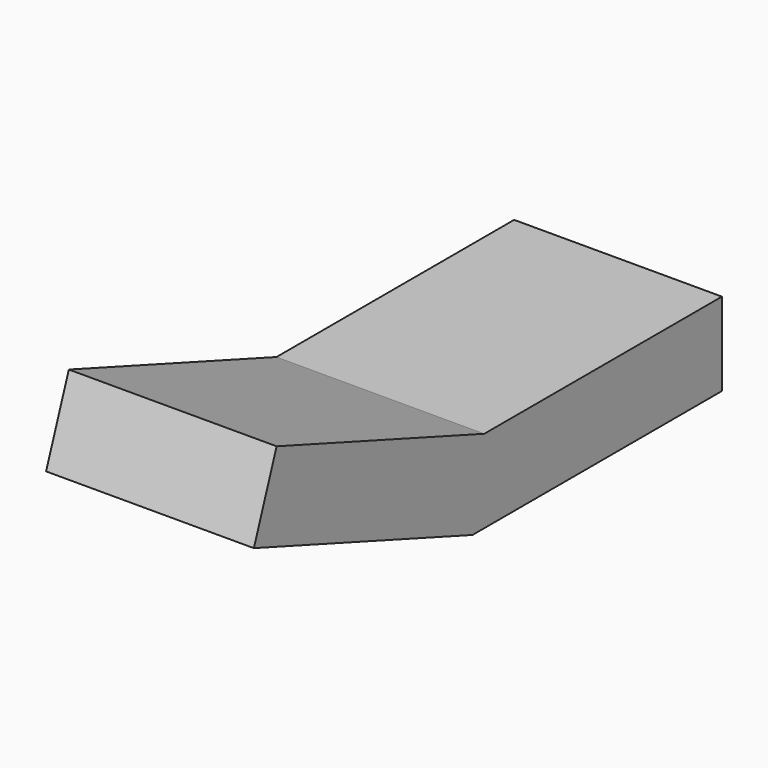
from build123d import *

# Parameters (mm, degrees)
BOX011_W                  = 0.5
BOX011_H                  = 0.75
BOX011_DEPTH              = 0.2
BOX012_W                  = 0.5
BOX012_H                  = 0.7
BOX012_DEPTH              = 0.2
BOX012_PLACEMENT_ANGLE    = 20
FUSION005_PLACEMENT_ANGLE = 180


with BuildPart() as cube011:
    # Box011 → Box011 (new body)
    with BuildSketch(Plane(origin=(0, -1.25, 0), x_dir=(1, 0, 0), z_dir=(0, 0, 1))):
        with Locations((0.25, 0.375)):
            Rectangle(BOX011_W, BOX011_H)
    extrude(amount=BOX011_DEPTH)


with BuildPart() as fusion005:
    # Box012 → Box012 (new body)
    with BuildSketch(Plane.XY):
        with Locations((0.25, 0.35)):
            Rectangle(BOX012_W, BOX012_H)
    extrude(amount=BOX012_DEPTH)


with BuildPart() as fusion005_1:
    # Box012 placement: moved
    add(fusion005.part.moved(Location((0, -0.5, 0))).rotate(Axis((0, -0.5, 0), (1, 0, 0)), BOX012_PLACEMENT_ANGLE))

    # Fusion005: union Cube011
    add(cube011.part)


with BuildPart() as fusion005_2:
    # Fusion005 placement: moved
    add(fusion005_1.part.moved(Location((6.35, 3.5, 0))).rotate(Axis((6.35, 3.5, 0), (0, 0, 1)), FUSION005_PLACEMENT_ANGLE))


solid = fusion005_2.part
